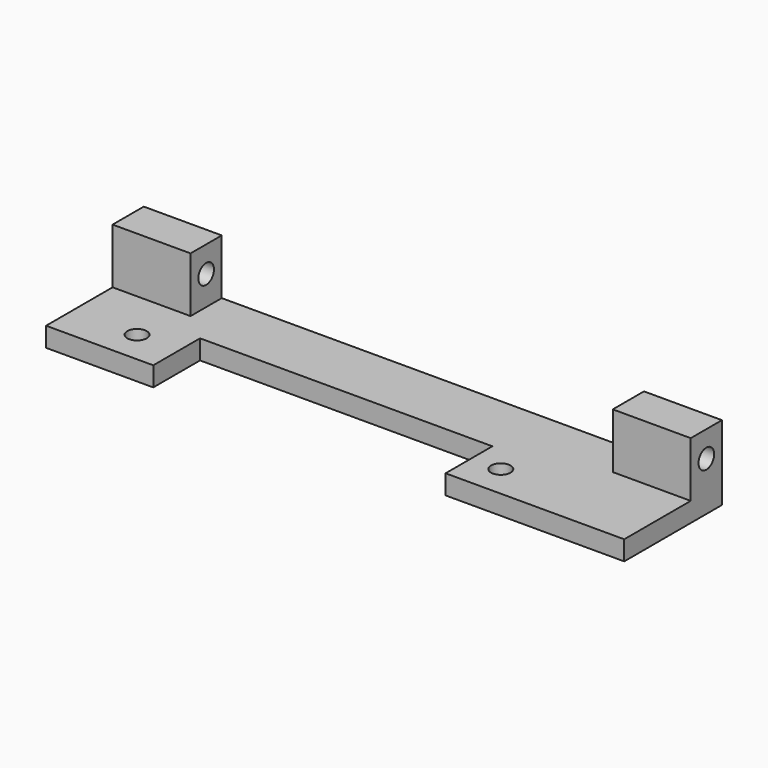
from build123d import *

# Parameters (mm, degrees)
F0_W      = 89
F0_H      = 18.8
F1_DEPTH  = 3
F2_W      = 12
F2_H      = 6
F3_W      = 12
F3_H      = 6
F4_DEPTH  = 8.5
F5_R      = 1.5
F6_DEPTH  = 89.001
F7_R      = 1.5
F8_R      = 1.5
F9_DEPTH  = 15
F10_W     = 45
F10_H     = 9
F11_DEPTH = 25


with BuildPart() as f1:
    # F0 (on Top) → F1 (new body)
    with BuildSketch(Plane.XY):
        Rectangle(F0_W, F0_H)
    extrude(amount=F1_DEPTH)

    # F2 (on face) + F3 (on face) → F4 (join)
    with BuildSketch(Plane.XY.offset(3)):
        with Locations((38.5, 6.4)):
            Rectangle(F2_W, F2_H)
    with BuildSketch(Plane.XY.offset(3)):
        with Locations((-38.5, 6.4)):
            Rectangle(F3_W, F3_H)
    extrude(amount=F4_DEPTH)

    # F5 (on face) → F6 (cut, through all)
    with BuildSketch(Plane(origin=(-44.5, 0, 0), x_dir=(0, -1, 0), z_dir=(-1, 0, 0))):
        with Locations((-6.4, 7.5)):
            Circle(F5_R)
    extrude(amount=-F6_DEPTH, mode=Mode.SUBTRACT)

    # F7 (on face) + F8 (on face) → F9 (cut)
    with BuildSketch(Plane.XY.offset(3)):
        with Locations((21.5, -4.4)):
            Circle(F7_R)
    with BuildSketch(Plane.XY.offset(3)):
        with Locations((-34.5, -4.4)):
            Circle(F8_R)
    extrude(amount=-F9_DEPTH, mode=Mode.SUBTRACT)

    # F10 (on face) → F11 (cut)
    with BuildSketch(Plane(origin=(0, 0, 0), x_dir=(1, 0, 0), z_dir=(0, 0, -1))):
        with Locations((-5.5, 4.9)):
            Rectangle(F10_W, F10_H)
    extrude(amount=-F11_DEPTH, mode=Mode.SUBTRACT)


solid = f1.part
